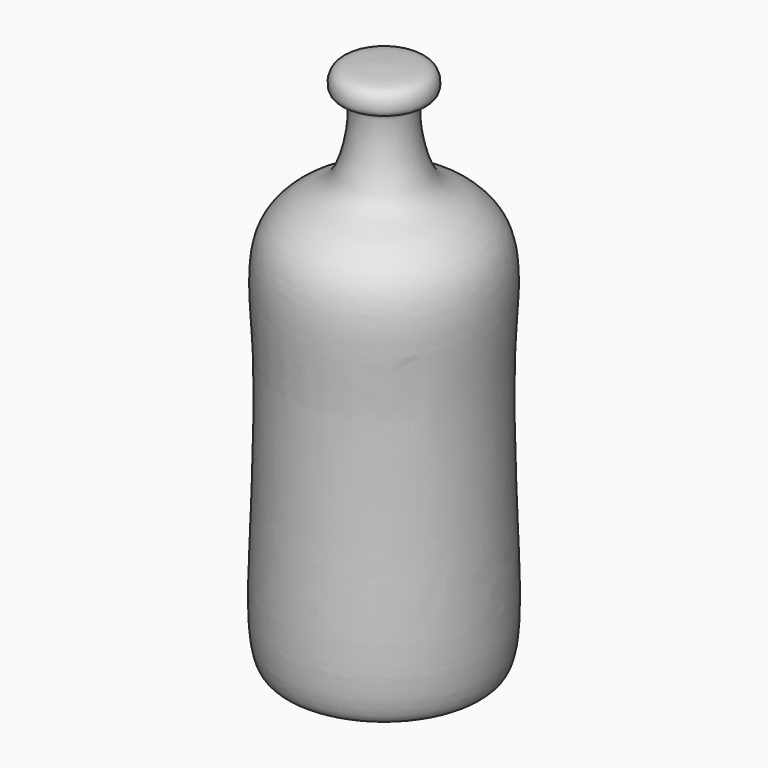
from build123d import *


with BuildPart() as f2:
    # F0 (on Front) → F2 (revolve)
    with BuildSketch(Plane.XZ):
        with BuildLine():
            add(Edge.make_bspline(
                [(0, -60.8521401882), (-3.3211372199, -60.74537248), (-9.7917975253, -60.537354104), (-17.7180751108, -64.9077763092), (-24.7359107024, -64.7241346817), (-24.1675084241, -37.9624398138), (-22.4526066754, -1.4715608293), (-25.7742465031, 23.1961991162), (-14.9599554929, 31.4003141279), (-7.9579000952, 33.0954816794), (-4.9981658503, 52.5565587511), (-10.2779388602, 50.58833425), (-10.3384246923, 56.6462102104), (-4.8459387369, 57.003625703), (-1.6351667069, 57.1876366397), (0, 57.2813488543)],
                knots=[0, 0, 0, 0, 0.0745527048, 0.145253025, 0.1943152083, 0.3082643147, 0.4597592015, 0.5739475294, 0.6525710561, 0.716365474, 0.8102858699, 0.848185849, 0.8949356622, 0.9464933338, 1, 1, 1, 1], degree=3))
            Line((0, -60.8521401882), (0, 57.2813488543))
        make_face()
    revolve(axis=Axis((0, 0, -3.7253e-06), (0, 0, 1)))


solid = f2.part
